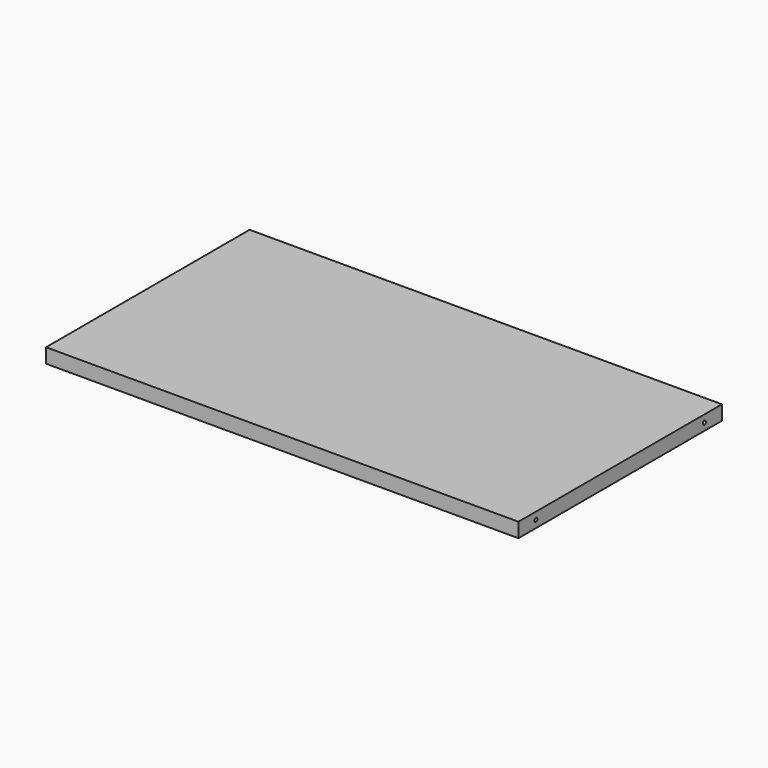
from build123d import *

# Parameters (mm, degrees)
F0_W           = 650
F0_H           = 350
F1_DEPTH       = 20
F4_D           = 5
F4_DEPTH       = 20
F4_TIP         = 1.5021515476
F4_ON_F3_D     = 5
F4_ON_F3_DEPTH = 20
F4_ON_F3_TIP   = 1.5021515476


with BuildPart() as f1:
    # F0 (on Top) → F1 (new body)
    with BuildSketch(Plane.XY):
        Rectangle(F0_W, F0_H)
    extrude(amount=F1_DEPTH)

    # F4
    with Locations(Plane(origin=(-325, 0, 0), x_dir=(0, -1, 0), z_dir=(-1, 0, 0))):
        with Locations((-145, 10), (145, 10)):
            Hole(F4_D / 2, depth=F4_DEPTH)
            with Locations((0, 0, -(F4_DEPTH + F4_TIP / 2))):  # 118° drill point
                Cone(0, F4_D / 2, F4_TIP, mode=Mode.SUBTRACT)

    # F4 on F3
    with Locations(Plane.YZ.offset(325)):
        with Locations((-145, 10), (145, 10)):
            Hole(F4_ON_F3_D / 2, depth=F4_ON_F3_DEPTH)
            with Locations((0, 0, -(F4_ON_F3_DEPTH + F4_ON_F3_TIP / 2))):  # 118° drill point
                Cone(0, F4_ON_F3_D / 2, F4_ON_F3_TIP, mode=Mode.SUBTRACT)


solid = f1.part
